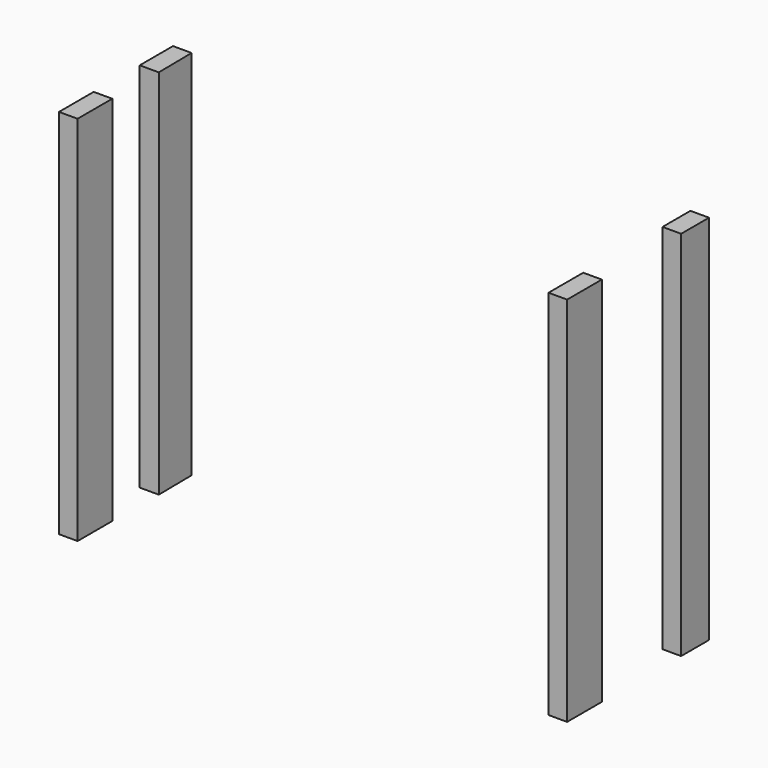
from build123d import *

# Parameters (mm, degrees)
F0_W     = 38.1
F0_H     = 88.9
F0_H_2   = 71.467401
F1_DEPTH = 762


with BuildPart() as f1:
    # F0 (on Top) → F1 (new body)
    with BuildSketch(Plane.XY):
        Polygon((38.1, 0), (0, 0), (0, -85.309267), (39.138272, -85.309267), align=None)
        with Locations((19.05, -247.65)):
            Rectangle(F0_W, F0_H)
        with Locations((1022.35, 35.7337)):
            Rectangle(F0_W, F0_H_2)
        with Locations((1022.35, -247.65)):
            Rectangle(F0_W, F0_H)
    extrude(amount=F1_DEPTH)


solid = f1.part
